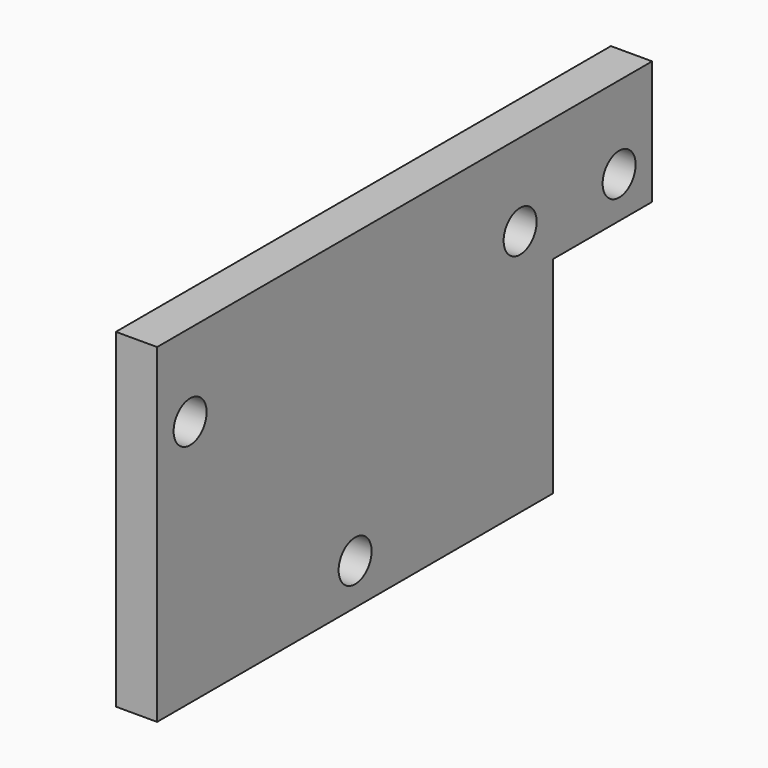
from build123d import *

# Parameters (mm, degrees)
F0_R     = 12.7
F0_W     = 76.2
F0_H     = 76.2
F1_DEPTH = 25.4


with BuildPart() as f1:
    # F0 (on Right) → F1 (new body)
    with BuildSketch(Plane.YZ):
        Polygon((304.8, 0), (0, 0), (0, -203.2), (304.8, -203.2), (304.8, -76.2), align=None)
        with Locations((152.4, -177.8)):
            Circle(F0_R, mode=Mode.SUBTRACT)
        with Locations((25.4, -50.8)):
            Circle(F0_R, mode=Mode.SUBTRACT)
        with Locations((279.4, -50.8)):
            Circle(F0_R, mode=Mode.SUBTRACT)
        with Locations((342.9, -38.1)):
            Rectangle(F0_W, F0_H)
        with Locations((355.6, -50.8)):
            Circle(F0_R, mode=Mode.SUBTRACT)
    extrude(amount=F1_DEPTH)


solid = f1.part
